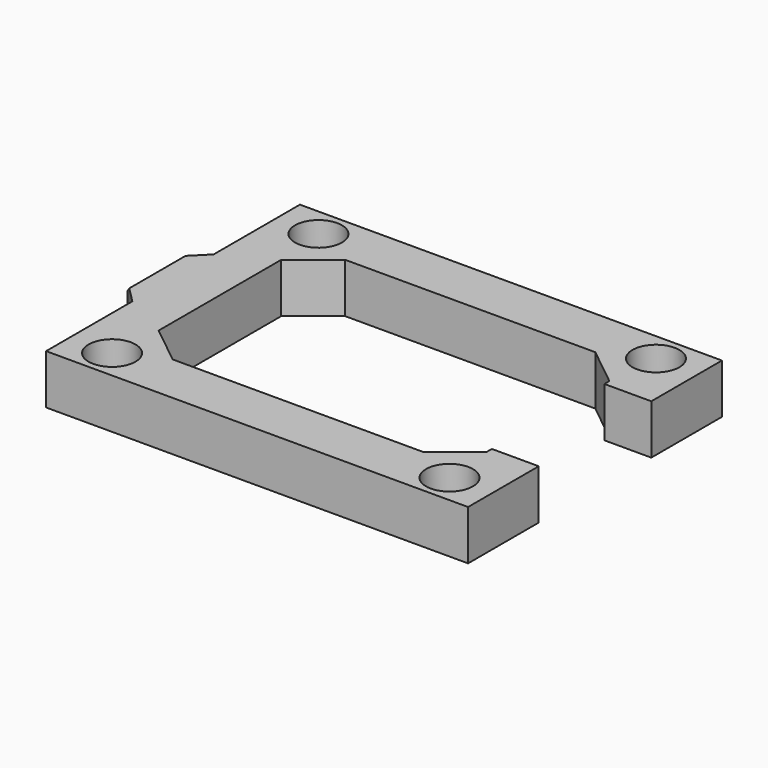
from build123d import *

# Parameters (mm, degrees)
F1_DEPTH       = 6.35
F2_D           = 3.2
F2_CBORE_D     = 6
F2_CBORE_DEPTH = 3.5
F3_SIZE        = 1


with BuildPart() as f1:
    # F0 (on Top) → F1 (new body)
    with BuildSketch(Plane.XY):
        Polygon((-27, -20.3), (27, -20.3), (27, -9), (21, -9), (21, -9.8), (16, -13.8), (-16, -13.8), (-21, -9.8), (-21, 9.8), (-16, 13.8), (16, 13.8), (21, 9.8), (21, 9), (27, 9), (27, 20.3), (-27, 20.3), (-27, 6.5), (-30, 3.5), (-30, -3.5), (-27, -6.5), align=None)
    extrude(amount=-F1_DEPTH)

    # F2 (through all)
    with Locations(Plane.XY):
        with Locations((-21.59, -16.51), (21.59, -16.51), (21.59, 16.51), (-21.59, 16.51)):
            CounterBoreHole(F2_D / 2, F2_CBORE_D / 2, F2_CBORE_DEPTH)

    # F3
    f3_edges = [f1.edges().sort_by_distance(p)[0] for p in [
        (-30, 0, 0),
    ]]
    chamfer(f3_edges, length=F3_SIZE)


solid = f1.part
